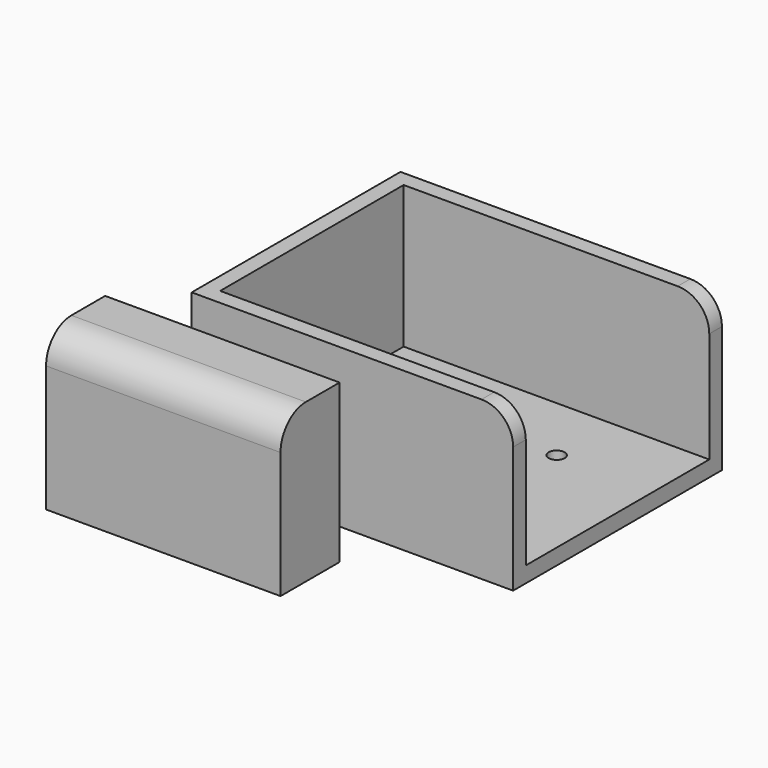
from build123d import *

# Parameters (mm, degrees)
F0_W     = 51.6543779522
F0_H     = 41.938520968
F1_DEPTH = 25.4
F0_W_2   = 37.6770738512
F0_H_2   = 11.8587054312
F2_R     = 5.08
F2_2_R   = 5.08
F3_T     = -2.54
F5_D     = 2.5781


with BuildPart() as f1:
    # F0 (on Top) → F1 (new body)
    with BuildSketch(Plane.XY):
        with Locations((14.0857463703, -20.969260484)):
            Rectangle(F0_W, F0_H)
    extrude(amount=F1_DEPTH)

    # F2#2
    f2_2_edges = [f1.edges().sort_by_distance(p)[0] for p in [
        (39.912935, -20.96926, 25.4),
    ]]
    fillet(f2_2_edges, radius=F2_2_R)

    # F3
    f3_openings = [f1.faces().sort_by_distance(p)[0] for p in [
        (11.545746, -20.96926, 25.4),
        (38.425038, -20.96926, 23.912102),
        (39.912935, -20.96926, 10.16),
    ]]
    offset(amount=F3_T, openings=f3_openings)

    # F5 (through all)
    with Locations(Plane(origin=(0, 0, 0), x_dir=(1, 0, 0), z_dir=(0, 0, -1))):
        with Locations((24.2253057659, 13.5934464633)):
            Hole(F5_D / 2)


with BuildPart() as f1b:
    # F0 (on Top) → F1, piece 2 (new body)
    with BuildSketch(Plane.XY):
        with Locations((-0.7876539603, -55.4026570171)):
            Rectangle(F0_W_2, F0_H_2)
    extrude(amount=F1_DEPTH)

    # F2
    f2_edges = [f1b.edges().sort_by_distance(p)[0] for p in [
        (-0.787654, -61.33201, 25.4),
    ]]
    fillet(f2_edges, radius=F2_R)


solid = Compound([f1.part, f1b.part])
